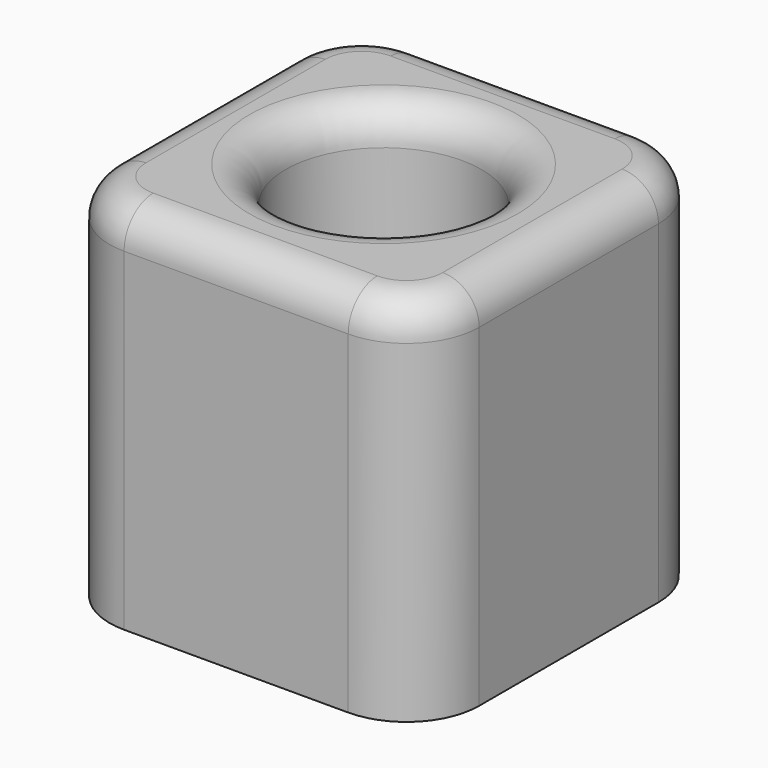
from build123d import *

# Parameters (mm, degrees)
F0_W     = 50.8
F0_H     = 50.8
F1_DEPTH = 50.8
F2_R     = 13.4529093532
F3_DEPTH = 50.801
F4_R     = 10
F5_R     = 5


with BuildPart() as f1:
    # F0 (on Top) → F1 (new body)
    with BuildSketch(Plane.XY):
        with Locations((25.4, 25.4)):
            Rectangle(F0_W, F0_H)
    extrude(amount=F1_DEPTH)

    # F2 (on face) → F3 (cut, through all)
    with BuildSketch(Plane.XY.offset(50.8)):
        with Locations((25.1163877547, 25.6836116314)):
            Circle(F2_R)
    extrude(amount=-F3_DEPTH, mode=Mode.SUBTRACT)

    # F4
    f4_edges = [f1.edges().sort_by_distance(p)[0] for p in [
        (50.8, 50.8, 25.4),
        (50.8, 0, 25.4),
        (0, 50.8, 25.4),
        (0, 0, 25.4),
    ]]
    fillet(f4_edges, radius=F4_R)

    # F5
    f5_edges = [f1.edges().sort_by_distance(p)[0] for p in [
        (11.663478, 25.683612, 50.8),
        (11.663478, 25.683612, 0),
        (0, 25.4, 50.8),
        (2.928932, 47.871068, 50.8),
        (2.928932, 2.928932, 50.8),
        (25.4, 50.8, 50.8),
        (25.4, 0, 50.8),
        (47.871068, 47.871068, 50.8),
        (47.871068, 2.928932, 50.8),
        (50.8, 25.4, 50.8),
    ]]
    fillet(f5_edges, radius=F5_R)


solid = f1.part
